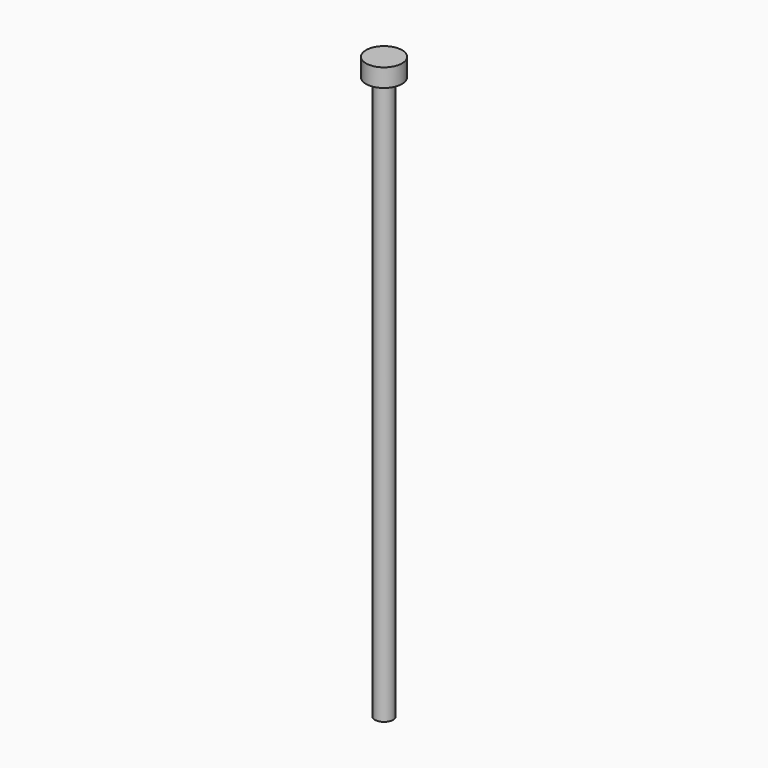
from build123d import *

# Parameters (mm, degrees)
F0_R     = 6.35
F1_DEPTH = 406.4
F2_R     = 12.602394
F3_DEPTH = 12.7


with BuildPart() as f1:
    # F0 (on Top) → F1 (new body)
    with BuildSketch(Plane.XY):
        Circle(F0_R)
    extrude(amount=F1_DEPTH)

    # F2 (on face) → F3 (join)
    with BuildSketch(Plane.XY.offset(406.4)):
        Circle(F2_R)
    extrude(amount=-F3_DEPTH)


solid = f1.part
